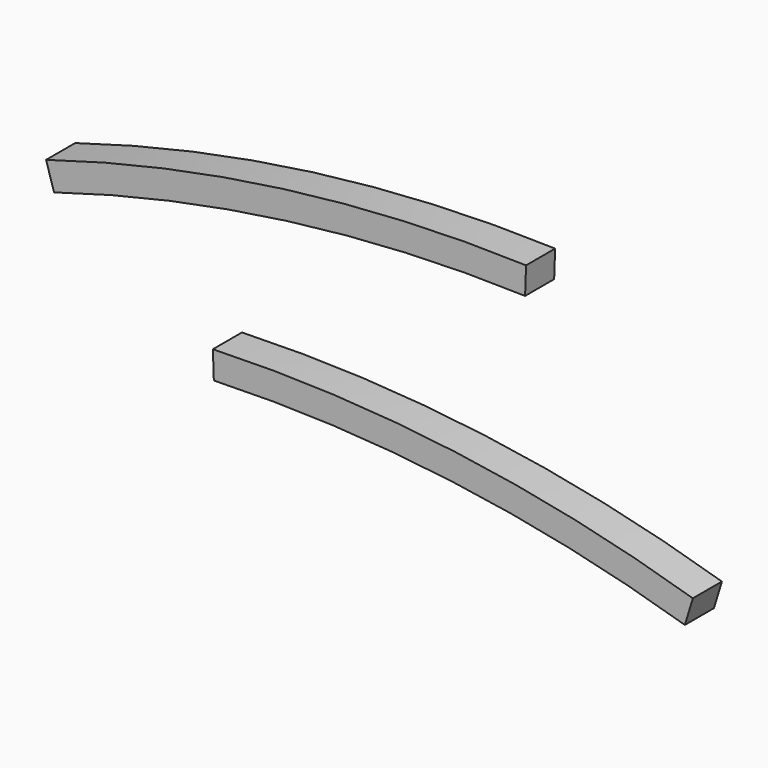
from build123d import *

# Parameters (mm, degrees)
F3_W          = 40
F3_H          = 30
F4_ANGLE_BACK = 2
F4_ANGLE      = 19
F5_ANGLE_BACK = 2
F5_ANGLE      = 19


with BuildPart() as f4:
    # F3 (on Right) → F4 (revolve)
    with BuildSketch(Plane.YZ, mode=Mode.PRIVATE) as f4_sk:
        with Locations((-145, 1599)):
            Rectangle(F3_W, F3_H)
    revolve(f4_sk.sketch.rotate(Axis((0, -0.2076134086, 0), (0, 1, 0)), -F4_ANGLE_BACK), axis=Axis((0, -0.2076134086, 0), (0, 1, 0)), revolution_arc=F4_ANGLE)


with BuildPart() as f5:
    # F3 (on Right) → F5 (revolve)
    with BuildSketch(Plane.YZ, mode=Mode.PRIVATE) as f5_sk:
        with Locations((145, 1599)):
            Rectangle(F3_W, F3_H)
    revolve(f5_sk.sketch.rotate(Axis((0, -0.2076134086, 0), (0, -1, 0)), -F5_ANGLE_BACK), axis=Axis((0, -0.2076134086, 0), (0, -1, 0)), revolution_arc=F5_ANGLE)


solid = Compound([f4.part, f5.part])
